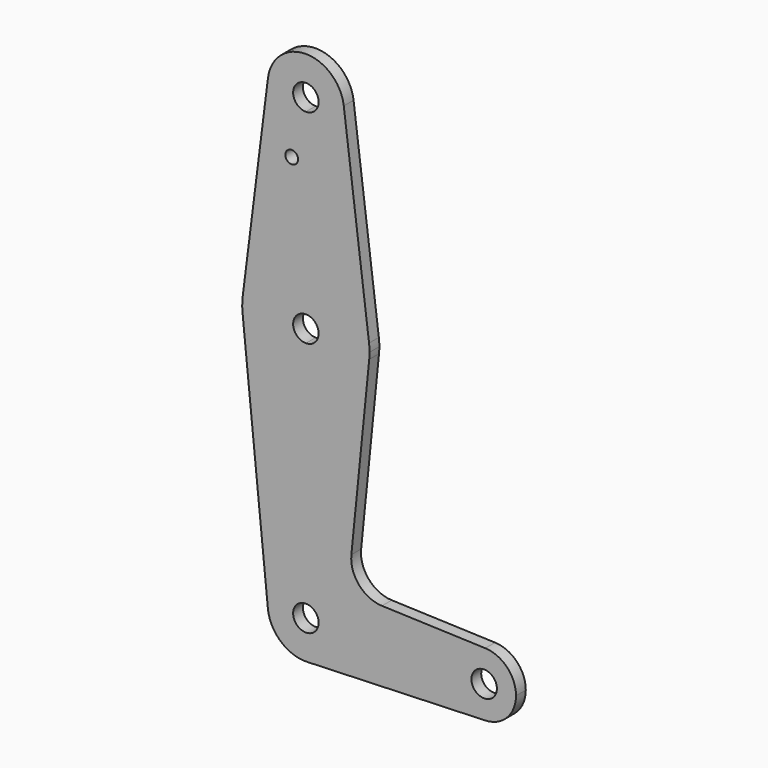
from build123d import *

# Parameters (mm, degrees)
F0_R     = 1.5875
F1_DEPTH = 3.048


with BuildPart() as f1:
    # F0 (on Front) → F1 (new body)
    with BuildSketch(Plane.XZ):
        with BuildLine():
            ThreePointArc((-9.4502929642, 115.490625), (-7.14375, 107.9998046905), (0, 104.775))
            ThreePointArc((0, 104.775), (6.7351920908, 107.5648079092), (9.525, 114.3))
            ThreePointArc((9.525, 114.3), (9.5063048942, 114.896483242), (9.4502929642, 115.490625))
            ThreePointArc((9.4502929642, 115.490625), (0, 123.825), (-9.4502929642, 115.490625))
        make_face()
        with BuildLine():
            ThreePointArc((3.175, 114.3), (2.2450640303, 112.0549359697), (0, 111.125))
            ThreePointArc((0, 111.125), (-2.2450640303, 116.5450640303), (3.175, 114.3))
        make_face(mode=Mode.SUBTRACT)
        with BuildLine():
            ThreePointArc((9.525, 114.3), (6.7351920908, 107.5648079092), (0, 104.775))
            Line((0, 104.775), (0, 79.375))
            ThreePointArc((0, 79.375), (10.5003255158, 75.40625), (15.7504882737, 65.484375))
            Line((15.7504882737, 65.484375), (9.4502929642, 115.490625))
            ThreePointArc((9.4502929642, 115.490625), (9.5063048942, 114.896483242), (9.525, 114.3))
        make_face()
        with BuildLine():
            Line((0, 79.375), (0, 104.775))
            ThreePointArc((0, 104.775), (-7.14375, 107.9998046905), (-9.4502929642, 115.490625))
            Line((-9.4502929642, 115.490625), (-15.7504882737, 65.484375))
            ThreePointArc((-15.7504882737, 65.484375), (-10.5003255158, 75.40625), (0, 79.375))
        make_face()
        with Locations((-3.5341974862, 100.0252)):
            Circle(F0_R, mode=Mode.SUBTRACT)
        with BuildLine():
            ThreePointArc((15.7504882737, 65.484375), (10.5003255158, 75.40625), (0, 79.375))
            Line((0, 79.375), (0, 66.675))
            ThreePointArc((0, 66.675), (2.2450640303, 65.7450640303), (3.175, 63.5))
            ThreePointArc((3.175, 63.5), (2.2450640303, 61.2549359697), (0, 60.325))
            Line((0, 60.325), (0, 47.625))
            ThreePointArc((0, 47.625), (10.6492737428, 51.7267849017), (15.7954255641, 61.9125))
            ThreePointArc((15.7954255641, 61.9125), (15.8550939106, 62.7052534459), (15.875, 63.5))
            ThreePointArc((15.875, 63.5), (15.8438414904, 64.4941387366), (15.7504882737, 65.484375))
        make_face()
        with BuildLine():
            Line((0, 66.675), (0, 79.375))
            ThreePointArc((0, 79.375), (-10.5003255158, 75.40625), (-15.7504882737, 65.484375))
            ThreePointArc((-15.7504882737, 65.484375), (-15.8737438155, 63.6997054867), (-15.7954255641, 61.9125))
            ThreePointArc((-15.7954255641, 61.9125), (-10.6492737428, 51.7267849017), (0, 47.625))
            Line((0, 47.625), (0, 60.325))
            ThreePointArc((0, 60.325), (-3.175, 63.5), (0, 66.675))
        make_face()
        with BuildLine():
            ThreePointArc((0, 47.625), (-10.6492737428, 51.7267849017), (-15.7954255641, 61.9125))
            Line((-15.7954255641, 61.9125), (-9.4772553384, -0.9525))
            ThreePointArc((-9.4772553384, -0.9525), (-7.063929059, 6.3895642457), (0, 9.525))
            Line((0, 9.525), (0, 47.625))
        make_face()
        with BuildLine():
            ThreePointArc((15.7954255641, 61.9125), (10.6492737428, 51.7267849017), (0, 47.625))
            Line((0, 47.625), (0, 9.525))
            ThreePointArc((0, 9.525), (6.7351920908, 6.7351920908), (9.525, 0))
            Line((9.525, 0), (36.5125, 0))
            ThreePointArc((36.5125, 0), (38.9384772185, 5.7120069047), (44.7334821429, 7.9324362036))
            Line((44.7334821429, 7.9324362036), (18.9676000005, 8.8532337108))
            ThreePointArc((18.9676000005, 8.8532337108), (13.2611998974, 11.5713591498), (11.3411865923, 17.5933818124))
            Line((11.3411865923, 17.5933818124), (15.7954255641, 61.9125))
        make_face()
        with BuildLine():
            ThreePointArc((0, 9.525), (-7.063929059, 6.3895642457), (-9.4772553384, -0.9525))
            ThreePointArc((-9.4772553384, -0.9525), (-6.2623833816, -7.1769199091), (0.3401785714, -9.5189234444))
            ThreePointArc((0.3401785714, -9.5189234444), (6.8544082857, -6.6138273378), (9.525, 0))
            Line((9.525, 0), (3.175, 0))
            ThreePointArc((3.175, 0), (-2.2450640303, -2.2450640303), (0, 3.175))
            Line((0, 3.175), (0, 9.525))
        make_face()
        with BuildLine():
            ThreePointArc((9.525, 0), (6.8544082857, -6.6138273378), (0.3401785714, -9.5189234444))
            Line((0.3401785714, -9.5189234444), (44.7334821429, -7.9324362036))
            ThreePointArc((44.7334821429, -7.9324362036), (38.9384772185, -5.7120069047), (36.5125, 0))
            Line((36.5125, 0), (9.525, 0))
        make_face()
        with BuildLine():
            ThreePointArc((36.5125, 0), (38.9384772185, -5.7120069047), (44.7334821429, -7.9324362036))
            ThreePointArc((44.7334821429, -7.9324362036), (50.1620069047, -5.5115227815), (52.3875, 0))
            ThreePointArc((52.3875, 0), (50.1620069047, 5.5115227815), (44.7334821429, 7.9324362036))
            ThreePointArc((44.7334821429, 7.9324362036), (38.9384772185, 5.7120069047), (36.5125, 0))
        make_face()
        with BuildLine():
            ThreePointArc((47.625, 0), (44.45, -3.175), (41.275, 0))
            ThreePointArc((41.275, 0), (44.45, 3.175), (47.625, 0))
        make_face(mode=Mode.SUBTRACT)
        with BuildLine():
            ThreePointArc((9.525, 0), (6.7351920908, 6.7351920908), (0, 9.525))
            Line((0, 9.525), (0, 3.175))
            ThreePointArc((0, 3.175), (2.2450640303, 2.2450640303), (3.175, 0))
            Line((3.175, 0), (9.525, 0))
        make_face()
    extrude(amount=F1_DEPTH)


solid = f1.part
